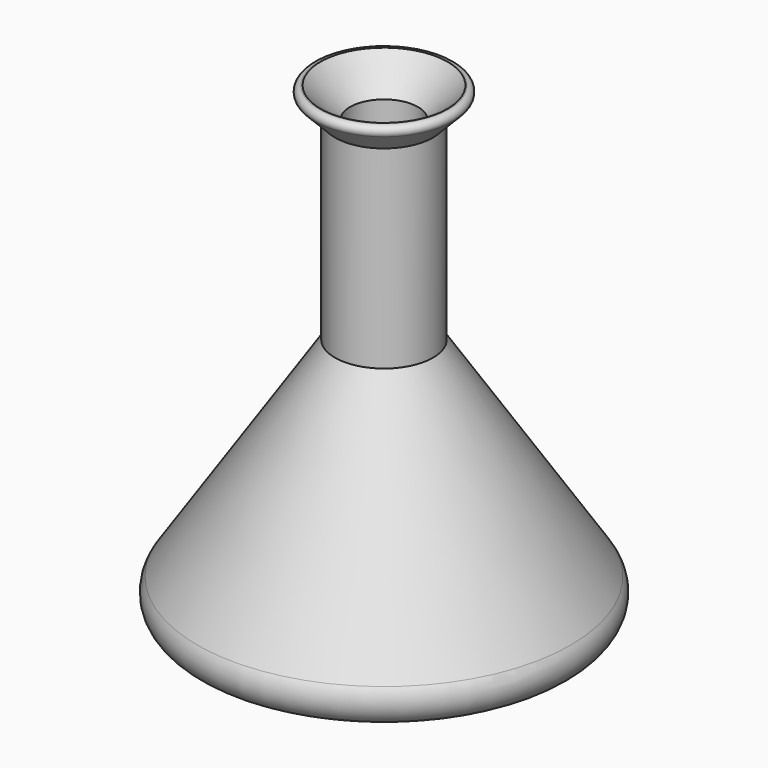
from build123d import *

# Parameters (mm, degrees)
F2_R = 5.08
F3_R = 1.137914


with BuildPart() as f1:
    # F0 (on Front) → F1 (revolve)
    with BuildSketch(Plane.XZ):
        Polygon((15.86405, 45.424398), (12.908017, 45.424398), (6.894663, 39.315261), (6.894663, -2.270045), (36.162157, -46.606813), (0, -46.606813), (0, -50.154049), (43.059569, -50.154049), (9.951984, 0), (9.951984, 39.315261), align=None)
    revolve(axis=Axis((0, 0, -48.380431), (0, 0, 1)))

    # F2
    f2_edges = [f1.edges().sort_by_distance(p)[0] for p in [
        (-43.059569, 0, -50.154049),
    ]]
    fillet(f2_edges, radius=F2_R)

    # F3
    f3_edges = [f1.edges().sort_by_distance(p)[0] for p in [
        (-15.86405, 0, 45.424398),
    ]]
    fillet(f3_edges, radius=F3_R)


solid = f1.part
